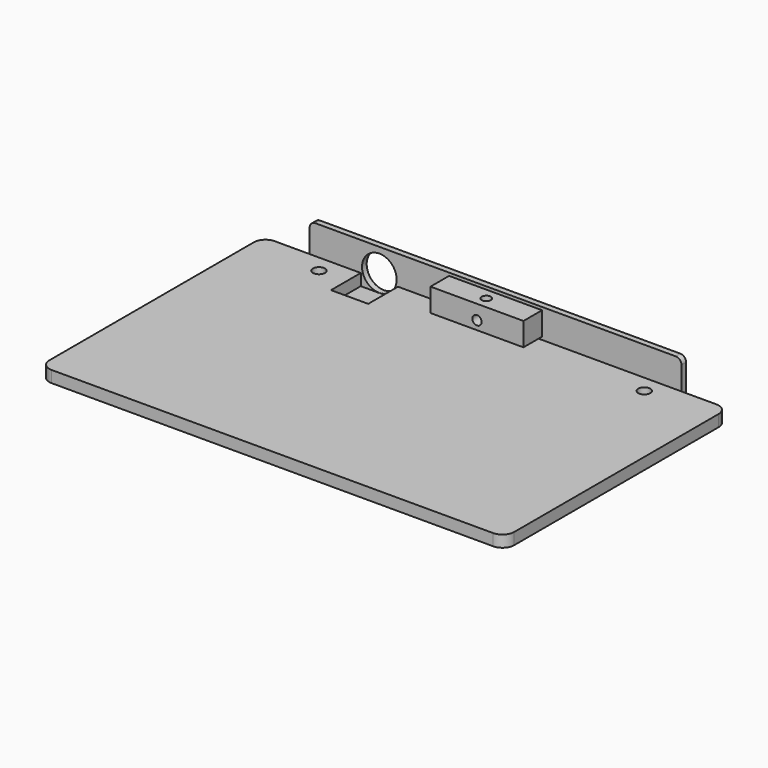
from build123d import *

# Parameters (mm, degrees)
F1_DEPTH  = 6.35
F3_DEPTH  = 101.6
F4_R      = 3.175
F6_D      = 6.604
F6_2_D    = 6.604
F8_D      = 5.05
F9_W      = 50.8
F9_H      = 12.7
F9_R      = 2.525
F10_DEPTH = 12.7
F12_D     = 5.1054
F15_D     = 18.923
F16_D     = 5.1054
F16_DEPTH = 6.35
F16_TIP   = 1.5338169022
F17_W     = 20.32
F17_H     = 20.32
F18_DEPTH = 6.35


with BuildPart() as f1:
    # F0 (on Top) → F1 (new body)
    with BuildSketch(Plane.XY):
        with BuildLine():
            Line((120.65, 76.2), (-120.65, 76.2))
            ThreePointArc((-120.65, 76.2), (-125.1401280605, 74.3401280605), (-127, 69.85))
            Line((-127, 69.85), (-127, -69.85))
            ThreePointArc((-127, -69.85), (-125.1401280605, -74.3401280605), (-120.65, -76.2))
            Line((-120.65, -76.2), (120.65, -76.2))
            ThreePointArc((120.65, -76.2), (125.1401280605, -74.3401280605), (127, -69.85))
            Line((127, -69.85), (127, 69.85))
            ThreePointArc((127, 69.85), (125.1401280605, 74.3401280605), (120.65, 76.2))
        make_face()
    extrude(amount=F1_DEPTH)

    # F6 (through all)
    with Locations(Plane(origin=(0, 0, -3.175), x_dir=(1, 0, 0), z_dir=(0, 0, -1))):
        with Locations((-88.9, -66.675), (88.9, -66.675)):
            Hole(F6_D / 2)

    # F17 (on face) → F18 (cut, through all)
    with BuildSketch(Plane.XY.offset(6.35)):
        with Locations((-63.5, 66.04)):
            Rectangle(F17_W, F17_H)
    extrude(amount=-F18_DEPTH, mode=Mode.SUBTRACT)


with BuildPart() as f3:
    # F2 (on Right) → F3 (new body, symmetric)
    with BuildSketch(Plane.YZ):
        Polygon((76.2, 0), (53.975, 0), (53.975, -3.175), (79.375, -3.175), (79.375, 22.225), (76.2, 22.225), (76.2, 6.35), align=None)
    extrude(amount=F3_DEPTH, both=True)

    # F4
    f4_edges = [f3.edges().sort_by_distance(p)[0] for p in [
        (-101.6, 53.975, -1.5875),
        (101.6, 53.975, -1.5875),
        (101.6, 77.7875, 22.225),
        (-101.6, 77.7875, 22.225),
    ]]
    fillet(f4_edges, radius=F4_R)

    # F6#2 (through all)
    with Locations(Plane(origin=(0, 0, -3.175), x_dir=(1, 0, 0), z_dir=(0, 0, -1))):
        with Locations((-88.9, -66.675), (88.9, -66.675)):
            Hole(F6_2_D / 2)

    # F8 (through all)
    with Locations(Plane(origin=(0, 79.375, 0), x_dir=(-1, 0, 0), z_dir=(0, 1, 0))):
        with Locations((0, 12.7)):
            Hole(F8_D / 2)

    # F12 (through all)
    with Locations(Plane(origin=(0, 79.375, 0), x_dir=(-1, 0, 0), z_dir=(0, 1, 0))):
        with Locations((-19.05, 14.2875), (19.05, 14.2875)):
            Hole(F12_D / 2)

    # F15 (through all)
    with Locations(Plane(origin=(0, 79.375, 0), x_dir=(-1, 0, 0), z_dir=(0, 1, 0))):
        with Locations((63.5, 9.525)):
            Hole(F15_D / 2)


with BuildPart() as f10:
    # F9 (on face) → F10 (new body)
    with BuildSketch(Plane.XZ.offset(-76.2)):
        with Locations((0, 14.2875)):
            Rectangle(F9_W, F9_H)
        with Locations((0, 12.7)):
            Circle(F9_R, mode=Mode.SUBTRACT)
    extrude(amount=F10_DEPTH)

    # F16
    with Locations(Plane.XY.offset(20.6375)):
        with Locations((0, 69.85)):
            Hole(F16_D / 2, depth=F16_DEPTH)
            with Locations((0, 0, -(F16_DEPTH + F16_TIP / 2))):  # 118° drill point
                Cone(0, F16_D / 2, F16_TIP, mode=Mode.SUBTRACT)


solid = Compound([f1.part, f3.part, f10.part])
